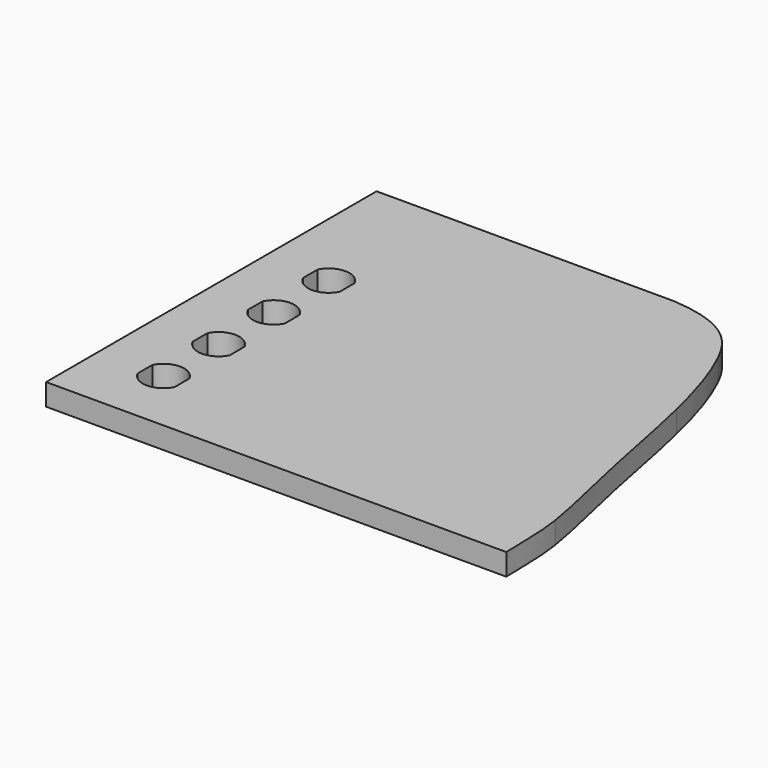
from build123d import *

# Parameters (mm, degrees)
F0_W     = 6.45
F0_H     = 7.4
F1_DEPTH = 3


with BuildPart() as f1:
    # F0 (on Top) → F1 (new body)
    with BuildSketch(Plane.XY):
        with BuildLine():
            Line((9, 0), (2.85, 0))
            ThreePointArc((2.85, 0), (2.7739863013, -0.6538348415), (2.55, -1.2727922061))
            Line((2.55, -1.2727922061), (2.55, -9))
            Line((2.55, -9), (9, -9))
            Line((9, -9), (9, 0))
        make_face()
        with BuildLine():
            Line((2.55, -9), (2.55, -1.2727922061))
            ThreePointArc((2.55, -1.2727922061), (0, -2.85), (-2.55, -1.2727922061))
            Line((-2.55, -1.2727922061), (-2.55, -9))
            Line((-2.55, -9), (0, -9))
            Line((0, -9), (2.55, -9))
        make_face()
        with BuildLine():
            ThreePointArc((-2.55, -1.2727922061), (-2.85, 0), (-2.55, 1.2727922061))
            Line((-2.55, 1.2727922061), (-2.55, 8.2272077939))
            ThreePointArc((-2.55, 8.2272077939), (-2.85, 9.5), (-2.55, 10.7727922061))
            Line((-2.55, 10.7727922061), (-2.55, 17.7272077939))
            ThreePointArc((-2.55, 17.7272077939), (-2.85, 19), (-2.55, 20.2727922061))
            Line((-2.55, 20.2727922061), (-2.55, 27.2272077939))
            ThreePointArc((-2.55, 27.2272077939), (-2.85, 28.5), (-2.55, 29.7727922061))
            Line((-2.55, 29.7727922061), (-2.55, 48))
            Line((-2.55, 48), (-9, 48))
            Line((-9, 48), (-9, -9))
            Line((-9, -9), (-2.55, -9))
            Line((-2.55, -9), (-2.55, -1.2727922061))
        make_face()
        with BuildLine():
            ThreePointArc((-2.55, 1.2727922061), (0, 2.85), (2.55, 1.2727922061))
            Line((2.55, 1.2727922061), (2.55, 8.2272077939))
            ThreePointArc((2.55, 8.2272077939), (0, 6.65), (-2.55, 8.2272077939))
            Line((-2.55, 8.2272077939), (-2.55, 1.2727922061))
        make_face()
        with BuildLine():
            ThreePointArc((-2.55, 20.2727922061), (0, 21.85), (2.55, 20.2727922061))
            Line((2.55, 20.2727922061), (2.55, 27.2272077939))
            ThreePointArc((2.55, 27.2272077939), (0, 25.65), (-2.55, 27.2272077939))
            Line((-2.55, 27.2272077939), (-2.55, 20.2727922061))
        make_face()
        with BuildLine():
            Line((-2.55, 17.7272077939), (-2.55, 10.7727922061))
            ThreePointArc((-2.55, 10.7727922061), (0, 12.35), (2.55, 10.7727922061))
            Line((2.55, 10.7727922061), (2.55, 17.7272077939))
            ThreePointArc((2.55, 17.7272077939), (0, 16.15), (-2.55, 17.7272077939))
        make_face()
        with BuildLine():
            Line((0, 48), (-2.55, 48))
            Line((-2.55, 48), (-2.55, 29.7727922061))
            ThreePointArc((-2.55, 29.7727922061), (0, 31.35), (2.55, 29.7727922061))
            Line((2.55, 29.7727922061), (2.55, 40.6))
            Line((2.55, 40.6), (2.55, 48))
            Line((2.55, 48), (0, 48))
        make_face()
        with BuildLine():
            Line((2.55, 9.5), (2.55, 8.2272077939))
            ThreePointArc((2.55, 8.2272077939), (2.7739863013, 8.8461651585), (2.85, 9.5))
            Line((2.85, 9.5), (2.55, 9.5))
        make_face()
        with BuildLine():
            Line((2.55, 28.5), (2.85, 28.5))
            ThreePointArc((2.85, 28.5), (2.7739863013, 29.1538348415), (2.55, 29.7727922061))
            Line((2.55, 29.7727922061), (2.55, 28.5))
        make_face()
        with BuildLine():
            Line((2.55, 10.7727922061), (2.55, 9.5))
            Line((2.55, 9.5), (2.85, 9.5))
            ThreePointArc((2.85, 9.5), (2.7739863013, 10.1538348415), (2.55, 10.7727922061))
        make_face()
        with BuildLine():
            ThreePointArc((-2.55, 10.7727922061), (-2.85, 9.5), (-2.55, 8.2272077939))
            Line((-2.55, 8.2272077939), (-2.55, 10.7727922061))
        make_face()
        with BuildLine():
            ThreePointArc((-2.55, 29.7727922061), (-2.85, 28.5), (-2.55, 27.2272077939))
            Line((-2.55, 27.2272077939), (-2.55, 29.7727922061))
        make_face()
        with BuildLine():
            ThreePointArc((-2.55, 20.2727922061), (-2.85, 19), (-2.55, 17.7272077939))
            Line((-2.55, 17.7272077939), (-2.55, 20.2727922061))
        make_face()
        with BuildLine():
            ThreePointArc((2.55, 27.2272077939), (2.7739863013, 27.8461651585), (2.85, 28.5))
            Line((2.85, 28.5), (2.55, 28.5))
            Line((2.55, 28.5), (2.55, 27.2272077939))
        make_face()
        with BuildLine():
            ThreePointArc((2.55, 17.7272077939), (2.7739863013, 18.3461651585), (2.85, 19))
            Line((2.85, 19), (2.55, 19))
            Line((2.55, 19), (2.55, 17.7272077939))
        make_face()
        with BuildLine():
            Line((-2.55, 0), (-2.55, 1.2727922061))
            ThreePointArc((-2.55, 1.2727922061), (-2.85, 0), (-2.55, -1.2727922061))
            Line((-2.55, -1.2727922061), (-2.55, 0))
        make_face()
        with BuildLine():
            Line((2.55, 19), (2.85, 19))
            ThreePointArc((2.85, 19), (2.7739863013, 19.6538348415), (2.55, 20.2727922061))
            Line((2.55, 20.2727922061), (2.55, 19))
        make_face()
        with BuildLine():
            Line((2.55, 0), (2.85, 0))
            ThreePointArc((2.85, 0), (2.7739863013, 0.6538348415), (2.55, 1.2727922061))
            Line((2.55, 1.2727922061), (2.55, 0))
        make_face()
        with BuildLine():
            ThreePointArc((2.55, -1.2727922061), (2.7739863013, -0.6538348415), (2.85, 0))
            Line((2.85, 0), (2.55, 0))
            Line((2.55, 0), (2.55, -1.2727922061))
        make_face()
        with BuildLine():
            Line((2.85, 9.5), (9, 9.5))
            Line((9, 9.5), (9, 19))
            Line((9, 19), (2.85, 19))
            ThreePointArc((2.85, 19), (2.7739863013, 18.3461651585), (2.55, 17.7272077939))
            Line((2.55, 17.7272077939), (2.55, 10.7727922061))
            ThreePointArc((2.55, 10.7727922061), (2.7739863013, 10.1538348415), (2.85, 9.5))
        make_face()
        with BuildLine():
            ThreePointArc((2.55, 1.2727922061), (2.7739863013, 0.6538348415), (2.85, 0))
            Line((2.85, 0), (9, 0))
            Line((9, 0), (9, 9.5))
            Line((9, 9.5), (2.85, 9.5))
            ThreePointArc((2.85, 9.5), (2.7739863013, 8.8461651585), (2.55, 8.2272077939))
            Line((2.55, 8.2272077939), (2.55, 1.2727922061))
        make_face()
        with BuildLine():
            Line((2.85, 28.5), (9, 28.5))
            Line((9, 28.5), (9, 40.6))
            Line((9, 40.6), (2.55, 40.6))
            Line((2.55, 40.6), (2.55, 29.7727922061))
            ThreePointArc((2.55, 29.7727922061), (2.7739863013, 29.1538348415), (2.85, 28.5))
        make_face()
        with BuildLine():
            Line((2.85, 19), (9, 19))
            Line((9, 19), (9, 28.5))
            Line((9, 28.5), (2.85, 28.5))
            ThreePointArc((2.85, 28.5), (2.7739863013, 27.8461651585), (2.55, 27.2272077939))
            Line((2.55, 27.2272077939), (2.55, 20.2727922061))
            ThreePointArc((2.55, 20.2727922061), (2.7739863013, 19.6538348415), (2.85, 19))
        make_face()
        with Locations((5.775, 44.3)):
            Rectangle(F0_W, F0_H)
        with BuildLine():
            Line((9, 19), (9, 9.5))
            Line((9, 9.5), (52, 9.5))
            add(Edge.make_bspline(
                [(50, 19), (50.6088826287, 15.931796376), (51.253971333, 12.798990307), (52, 9.5)],
                knots=[0.5306622188, 0.5306622188, 0.5306622188, 0.5306622188, 0.6890310094, 0.6890310094, 0.6890310094, 0.6890310094], degree=3))
            Line((50, 19), (9, 19))
        make_face()
        with BuildLine():
            Line((9, 28.5), (9, 19))
            Line((9, 19), (50, 19))
            add(Edge.make_bspline(
                [(48, 28.5), (48.8184408183, 25.0718048029), (49.3911173713, 22.068203624), (50, 19)],
                knots=[0.3722934282, 0.3722934282, 0.3722934282, 0.3722934282, 0.5306622188, 0.5306622188, 0.5306622188, 0.5306622188], degree=3))
            Line((48, 28.5), (9, 28.5))
        make_face()
        with BuildLine():
            Line((9, 40.6), (9, 28.5))
            Line((9, 28.5), (48, 28.5))
            add(Edge.make_bspline(
                [(44, 40.6), (45.8019582409, 36.91294727), (47.0622865771, 32.427791211), (48, 28.5)],
                knots=[0.1908453169, 0.1908453169, 0.1908453169, 0.1908453169, 0.3722934282, 0.3722934282, 0.3722934282, 0.3722934282], degree=3))
            Line((44, 40.6), (9, 40.6))
        make_face()
        with BuildLine():
            Line((9, 48), (9, 40.6))
            Line((9, 40.6), (44, 40.6))
            add(Edge.make_bspline(
                [(32, 48), (39.6102517843, 47.4730990827), (42.1047182631, 44.4780053519), (44, 40.6)],
                knots=[0, 0, 0, 0, 0.1908453169, 0.1908453169, 0.1908453169, 0.1908453169], degree=3))
            Line((32, 48), (9, 48))
        make_face()
        with BuildLine():
            Line((9, 9.5), (9, 0))
            Line((9, 0), (54, 0))
            add(Edge.make_bspline(
                [(52, 9.5), (52.746028667, 6.201009693), (53.5929972966, 2.735835148), (54, 0)],
                knots=[0.6890310094, 0.6890310094, 0.6890310094, 0.6890310094, 0.8473998, 0.8473998, 0.8473998, 0.8473998], degree=3))
            Line((52, 9.5), (9, 9.5))
        make_face()
        with BuildLine():
            Line((54, 0), (9, 0))
            Line((9, 0), (9, -9))
            Line((9, -9), (54.5, -9))
            add(Edge.make_bspline(
                [(54, 0), (54.392177611, -2.6361822254), (54.3758571148, -4.595189821), (54.5, -9)],
                knots=[0.8473998, 0.8473998, 0.8473998, 0.8473998, 1, 1, 1, 1], degree=3))
        make_face()
    extrude(amount=F1_DEPTH)


solid = f1.part
